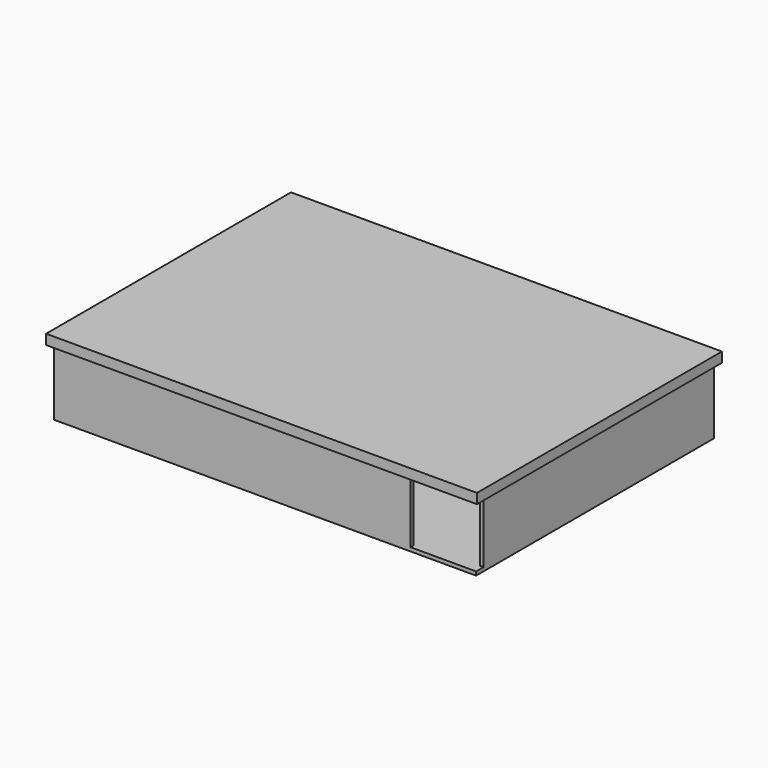
from build123d import *

# Parameters (mm, degrees)
F0_W     = 135.4
F0_H     = 95.4
F1_DEPTH = 1.2
F2_W     = 24.4
F2_H     = 1.2
F3_DEPTH = 22
F4_W     = 138.2
F4_H     = 98.2
F5_DEPTH = 1.2
F6_W     = 138.2
F6_H     = 98.2
F6_W_2   = 135.8
F6_H_2   = 95.8
F7_DEPTH = 2


with BuildPart() as f1:
    # F0 (on Top) → F1 (new body)
    with BuildSketch(Plane.XY):
        with Locations((67.7, -47.7)):
            Rectangle(F0_W, F0_H)
    extrude(amount=F1_DEPTH)

    # F2 (on face) → F3 (join)
    with BuildSketch(Plane.XY.offset(1.2)):
        Polygon((0, -95.4), (114.4, -95.4), (114.4, -94.2), (1.2, -94.2), (1.2, -1.2), (43.2, -1.2), (43.2, 0), (0, 0), align=None)
        with Locations((94.2, -0.6)):
            Rectangle(F2_W, F2_H)
        Polygon((135.4, 0), (114.4, 0), (114.4, -1.2), (134.2, -1.2), (134.2, -92.4), (135.4, -92.4), align=None)
    extrude(amount=F3_DEPTH)


with BuildPart() as f5:
    # F4 (on face) → F5 (new body)
    with BuildSketch(Plane.XY.offset(23.2)):
        with Locations((67.7, -47.7)):
            Rectangle(F4_W, F4_H)
    extrude(amount=F5_DEPTH)

    # F6 (on face) → F7 (join)
    with BuildSketch(Plane.XY.offset(23.2)):
        with Locations((67.7, -47.7)):
            Rectangle(F6_W, F6_H)
        with Locations((67.7, -47.7)):
            Rectangle(F6_W_2, F6_H_2, mode=Mode.SUBTRACT)
    extrude(amount=-F7_DEPTH)


solid = Compound([f1.part, f5.part])
